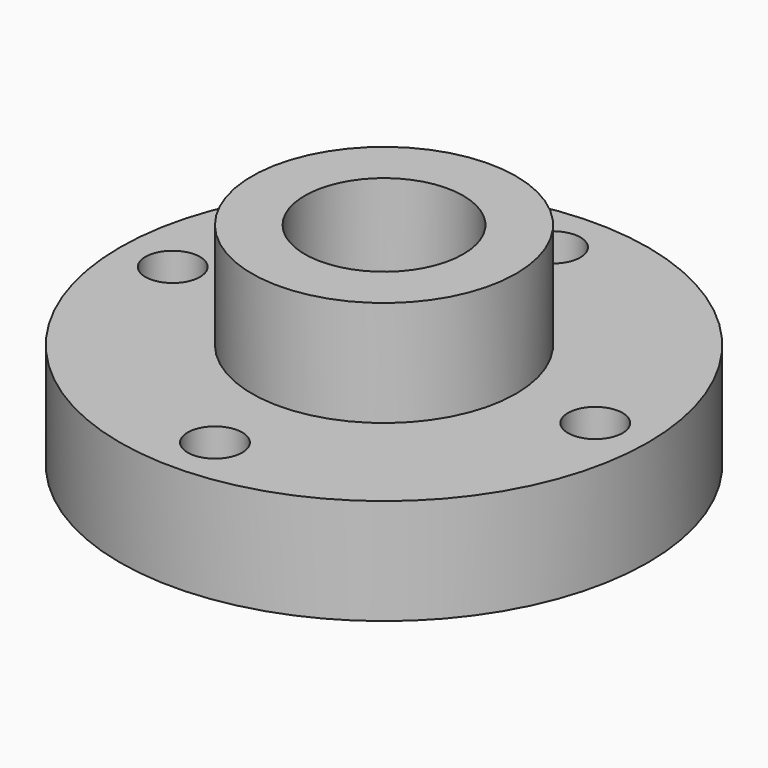
from build123d import *

# Parameters (mm, degrees)
F0_R     = 31.75
F0_R_2   = 3.281704
F0_R_3   = 15.875
F0_R_4   = 9.525
F1_DEPTH = 12.7
F2_DEPTH = 25.4


with BuildPart() as f1:
    # F0 (on Top) → F1 (new body)
    with BuildSketch(Plane.XY):
        Circle(F0_R)
        with Locations((0, -25.4)):
            Circle(F0_R_2, mode=Mode.SUBTRACT)
        with Locations((-25.4, 0)):
            Circle(F0_R_2, mode=Mode.SUBTRACT)
        Circle(F0_R_3, mode=Mode.SUBTRACT)
        with Locations((25.4, 0)):
            Circle(F0_R_2, mode=Mode.SUBTRACT)
        with Locations((0, 25.4)):
            Circle(F0_R_2, mode=Mode.SUBTRACT)
        Circle(F0_R_3)
        Circle(F0_R_4, mode=Mode.SUBTRACT)
    extrude(amount=F1_DEPTH)

    # F0 (on Top) → F2 (join)
    with BuildSketch(Plane.XY):
        Circle(F0_R_3)
        Circle(F0_R_4, mode=Mode.SUBTRACT)
    extrude(amount=F2_DEPTH)


solid = f1.part
